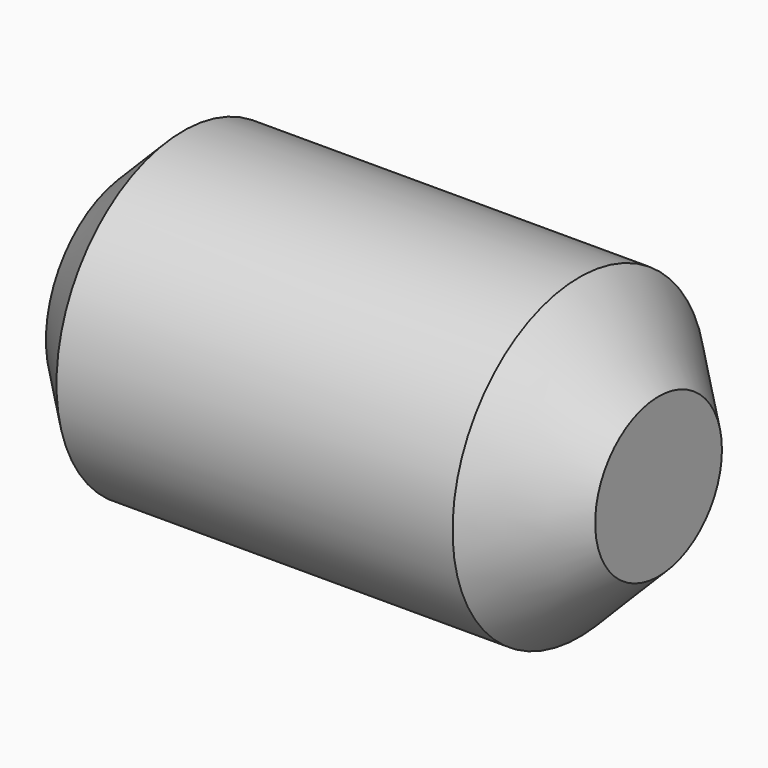
from build123d import *

# Parameters (mm, degrees)
F0_R     = 3
F1_DEPTH = 10
F2_SIZE  = 1.5
F3_SIZE  = 1


with BuildPart() as f1:
    # F0 (on Right) → F1 (new body)
    with BuildSketch(Plane.YZ):
        with Locations((0, 3)):
            Circle(F0_R)
    extrude(amount=F1_DEPTH)

    # F2
    f2_edges = [f1.edges().sort_by_distance(p)[0] for p in [
        (10, -3, 3),
    ]]
    chamfer(f2_edges, length=F2_SIZE)

    # F3
    f3_edges = [f1.edges().sort_by_distance(p)[0] for p in [
        (0, -3, 3),
    ]]
    chamfer(f3_edges, length=F3_SIZE)


solid = f1.part
